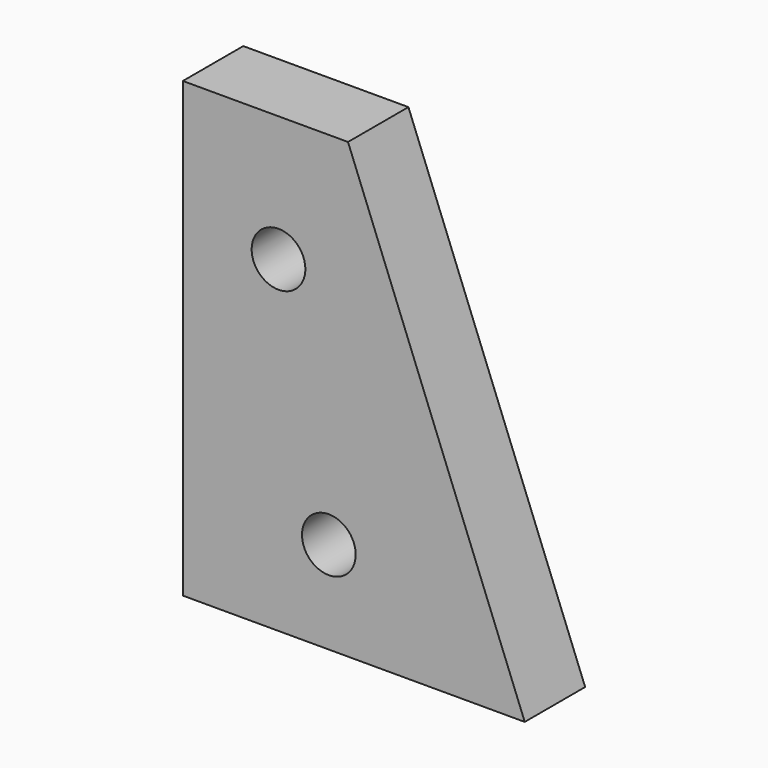
from build123d import *

# Parameters (mm, degrees)
CYLINDER125_R                     = 1.6
CYLINDER125_DEPTH                 = 40
CYLINDER126_R                     = 1.6
CYLINDER126_DEPTH                 = 40
EXTRUDE051_DEPTH                  = 10
SKETCH042_W                       = 4.5
SKETCH042_H                       = 27
EXTRUDE052_DEPTH                  = 21
PART_MIRRORING001_PLACEMENT_ANGLE = 180


with BuildPart() as cylinder125:
    # Cylinder125 → Cylinder125 (new body)
    with BuildSketch(Plane(origin=(5.3, 42, 40.5), x_dir=(0, 0, -1), z_dir=(0, -1, 0))):
        Circle(CYLINDER125_R)
    extrude(amount=CYLINDER125_DEPTH)


with BuildPart() as cylinder126:
    # Cylinder126 → Cylinder126 (new body)
    with BuildSketch(Plane(origin=(8.3, 42, 54.5), x_dir=(0, 0, -1), z_dir=(0, -1, 0))):
        Circle(CYLINDER126_R)
    extrude(amount=CYLINDER126_DEPTH)


with BuildPart() as extrude051:
    # Sketch041 → Extrude051 (new body)
    with BuildSketch(Plane.XZ):
        Polygon((-8.16038, 62.64716), (-8.16038, 30.419451), (4.410427, 62.64716), align=None)
    extrude(amount=-EXTRUDE051_DEPTH)


with BuildPart() as extrude051_1:
    # Extrude051 placement: moved
    add(extrude051.part.moved(Location((0, 8, 0))))


with BuildPart() as cut134:
    # Sketch042 → Extrude052 (new body)
    with BuildSketch(Plane.YZ):
        with Locations((12.25, 48.5)):
            Rectangle(SKETCH042_W, SKETCH042_H)
    extrude(amount=EXTRUDE052_DEPTH)


with BuildPart() as cut134_1:
    # Extrude052 placement: moved
    add(cut134.part.moved(Location((-7, 0, 0))))

    # Cut128: cut Extrude051
    add(extrude051_1.part, mode=Mode.SUBTRACT)


with BuildPart() as cut134_2:
    # Cut128 placement: moved
    add(cut134_1.part.moved(Location((0, -7, 0))))

    # Cut133: cut Cylinder126
    add(cylinder126.part, mode=Mode.SUBTRACT)

    # Cut134: cut Cylinder125
    add(cylinder125.part, mode=Mode.SUBTRACT)


with BuildPart() as part_mirroring001:
    # Part__Mirroring001: instance of Cut134
    add(cut134_2.part.mirror(Plane(origin=(3.813159, 4e-06, 48.5), x_dir=(1, 0, 0), z_dir=(0, 1, 0))))


with BuildPart() as part_mirroring001_1:
    # Part__Mirroring001 placement: moved
    add(part_mirroring001.part.moved(Location((237.6, 0, 0))).rotate(Axis((237.6, 0, 0), (0, 0, 1)), PART_MIRRORING001_PLACEMENT_ANGLE))


solid = part_mirroring001_1.part
